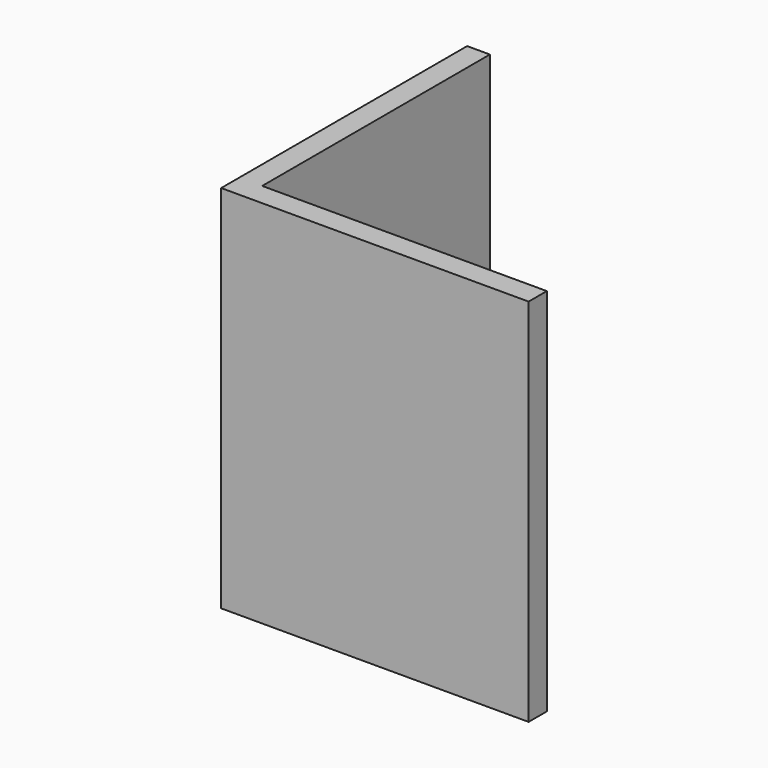
from build123d import *

# Parameters (mm, degrees)
PAD_DEPTH = 13


with BuildPart() as part:
    # Sketch → Pad (new body)
    with BuildSketch(Plane.XY):
        Polygon((0, 0), (0, 10), (-0.8, 10), (-0.8, -0.8), (10, -0.8), (10, 0), align=None)
    extrude(amount=PAD_DEPTH)


solid = part.part
